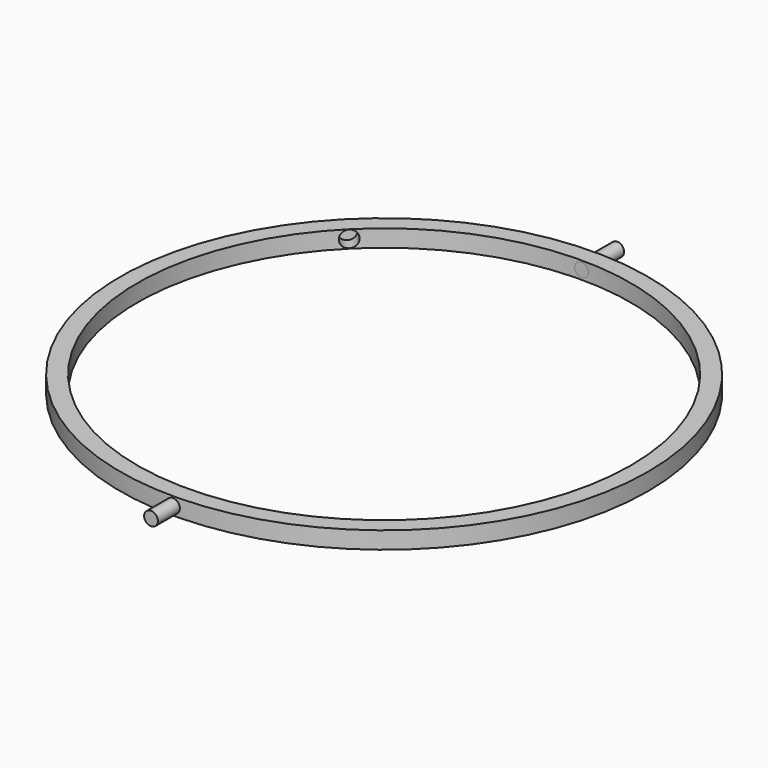
from build123d import *

# Parameters (mm, degrees)
F0_R           = 48.895
F0_R_2         = 45.72
F1_DEPTH       = 3.175
F2_R           = 1.27
F3_DEPTH       = 53.975
F3_DEPTH_BACK  = 53.975
F4_R           = 45.72
F5_DEPTH       = 25.4
F9_R           = 1.524
F10_DEPTH      = 48.26
F10_DEPTH_BACK = 48.26


with BuildPart() as f1:
    # F0 (on Top) → F1 (new body)
    with BuildSketch(Plane.XY):
        Circle(F0_R)
        Circle(F0_R_2, mode=Mode.SUBTRACT)
    extrude(amount=F1_DEPTH)

    # F2 (on Front) → F3 (join, two sides)
    with BuildSketch(Plane.XZ) as f3_sk:
        with Locations((0, 1.5875)):
            Circle(F2_R)
    extrude(amount=F3_DEPTH)
    extrude(f3_sk.sketch, amount=-F3_DEPTH_BACK)

    # F4 (on Top) → F5 (cut)
    with BuildSketch(Plane.XY):
        Circle(F4_R)
    extrude(amount=F5_DEPTH, mode=Mode.SUBTRACT)

    # F9 (on face) → F10 (cut, two sides)
    with BuildSketch(Plane(origin=(0, 0, 0), x_dir=(-0.7071067812, -0.7071067812, 0), z_dir=(-0.7071067812, 0.7071067812, 0))) as f10_sk:
        with Locations((0, 1.5875)):
            Circle(F9_R)
    extrude(amount=-F10_DEPTH, mode=Mode.SUBTRACT)
    extrude(f10_sk.sketch, amount=F10_DEPTH_BACK, mode=Mode.SUBTRACT)


solid = f1.part
